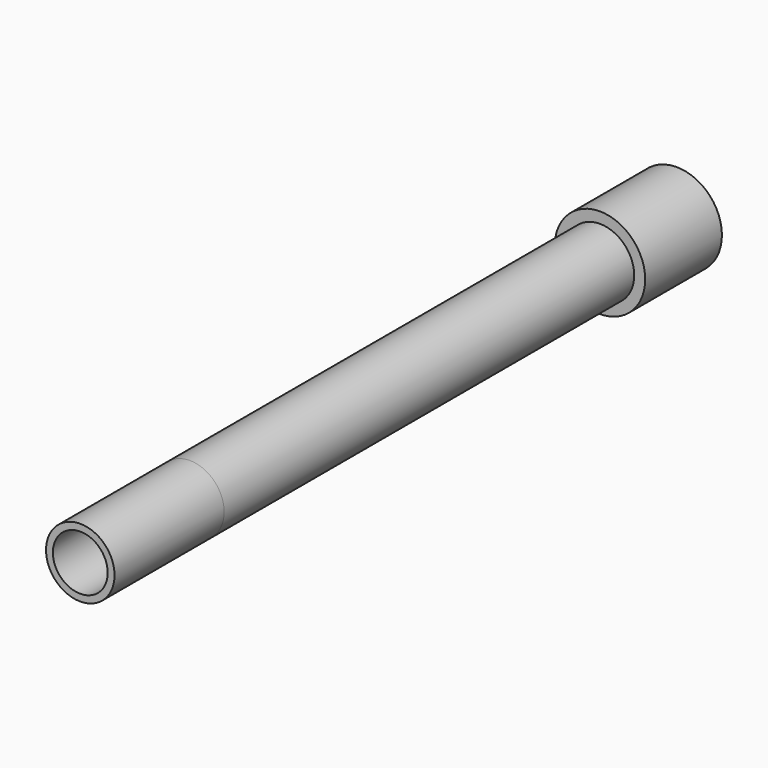
from build123d import *

# Parameters (mm, degrees)
F0_R      = 12.5
F0_R_2    = 10
F1_DEPTH  = 222
F2_DEPTH  = 50
F3_R      = 16.5
F3_R_2    = 12.5
F4_DEPTH  = 35
F5_R      = 10
F6_DEPTH  = 15
F7_R      = 12.5
F8_DEPTH  = 3
F9_W      = 10
F9_H      = 10
F10_DEPTH = 5
F11_R     = 1
F12_DEPTH = 25


with BuildPart() as f1:
    # F0 (on Front) → F1 (new body)
    with BuildSketch(Plane.XZ):
        Circle(F0_R)
        Circle(F0_R_2, mode=Mode.SUBTRACT)
    extrude(amount=F1_DEPTH)


with BuildPart() as f2:
    # F2 (new): a face of the model
    f2_faces = [f1.part.faces().sort_by_distance(p)[0] for p in [
        (-12.1464466094, -222, 0),
    ]]
    extrude(f2_faces, amount=F2_DEPTH)


with BuildPart() as f4:
    # F3 (on Front) → F4 (new body)
    with BuildSketch(Plane.XZ):
        Circle(F3_R)
        Circle(F3_R_2, mode=Mode.SUBTRACT)
    extrude(amount=F4_DEPTH)


with BuildPart() as f6:
    # F5 (on Front) → F6 (new body)
    with BuildSketch(Plane.XZ):
        Circle(F5_R)
    extrude(amount=F6_DEPTH)

    # F7 (on face) → F8 (join)
    with BuildSketch(Plane(origin=(0, 0, 0), x_dir=(-1, 0, 0), z_dir=(0, 1, 0))):
        Circle(F7_R)
    extrude(amount=F8_DEPTH)

    # F9 (on face) → F10 (join)
    with BuildSketch(Plane(origin=(0, 3, 0), x_dir=(-1, 0, 0), z_dir=(0, 1, 0))):
        Rectangle(F9_W, F9_H)
    extrude(amount=F10_DEPTH)

    # F11 (on face) → F12 (cut)
    with BuildSketch(Plane(origin=(0, 8, 0), x_dir=(-1, 0, 0), z_dir=(0, 1, 0))):
        Circle(F11_R)
    extrude(amount=-F12_DEPTH, mode=Mode.SUBTRACT)


solid = Compound([f1.part, f2.part, f4.part, f6.part])
